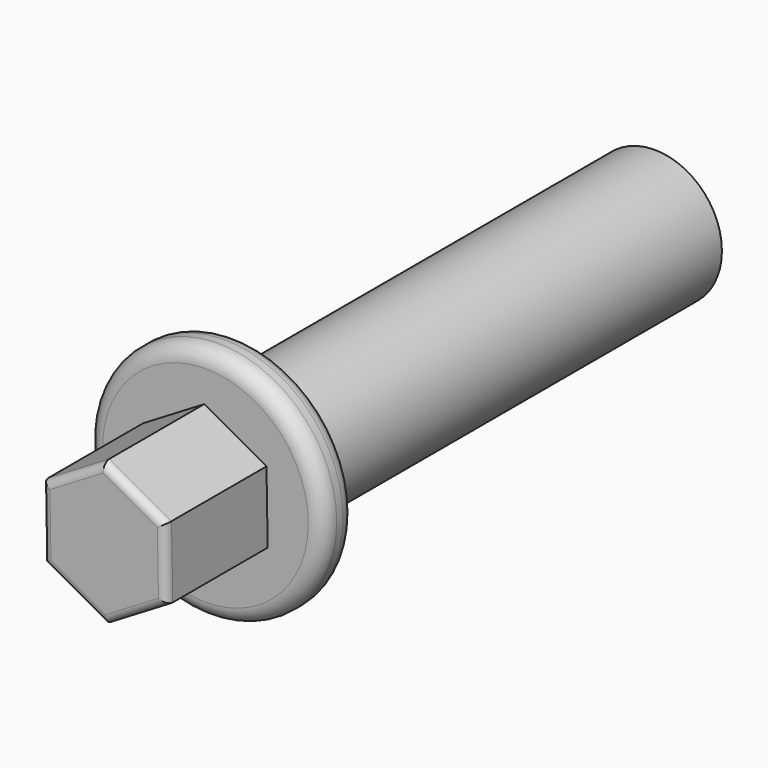
from build123d import *

# Parameters (mm, degrees)
F0_R     = 4.25
F1_DEPTH = 33
F2_DEPTH = 6
F3_R     = 7.5
F3_R_2   = 4.25
F4_DEPTH = 2.5
F6_DEPTH = 8
F7_R     = 0.5
F8_R     = 1


with BuildPart() as f1:
    # F0 (on Front) → F1 (new body)
    with BuildSketch(Plane.XZ):
        Circle(F0_R)
        Polygon((-1.375, 2.38157), (2.75, 0), (-1.375, -2.38157), align=None, mode=Mode.SUBTRACT)
        Polygon((-1.375, -2.38157), (2.75, 0), (-1.375, 2.38157), align=None)
    extrude(amount=F1_DEPTH)

    # F0 (on Front) → F2 (cut)
    with BuildSketch(Plane.XZ):
        Polygon((-1.375, -2.38157), (2.75, 0), (-1.375, 2.38157), align=None)
    extrude(amount=F2_DEPTH, mode=Mode.SUBTRACT)

    # F3 (on face) → F4 (join)
    with BuildSketch(Plane.XZ.offset(33)):
        Circle(F3_R)
        Circle(F3_R_2, mode=Mode.SUBTRACT)
        Circle(F3_R_2)
    extrude(amount=F4_DEPTH)

    # F5 (on face) → F6 (join)
    with BuildSketch(Plane.XZ.offset(35.5)):
        Polygon((0.076423, -4.499351), (3.934764, -2.183492), (3.858341, 2.315859), (-0.076423, 4.499351), (-3.934764, 2.183492), (-3.858341, -2.315859), align=None)
    extrude(amount=F6_DEPTH)

    # F7
    f7_edges = [f1.edges().sort_by_distance(p)[0] for p in [
        (2.005593, -43.5, -3.341421),
        (-1.890959, -43.5, -3.407605),
        (-3.896552, -43.5, -0.066184),
        (-2.005593, -43.5, 3.341421),
        (1.890959, -43.5, 3.407605),
        (3.896552, -43.5, 0.066184),
    ]]
    fillet(f7_edges, radius=F7_R)

    # F8
    f8_edges = [f1.edges().sort_by_distance(p)[0] for p in [
        (-7.5, -35.5, 0),
        (-7.5, -33, 0),
    ]]
    fillet(f8_edges, radius=F8_R)


solid = f1.part
